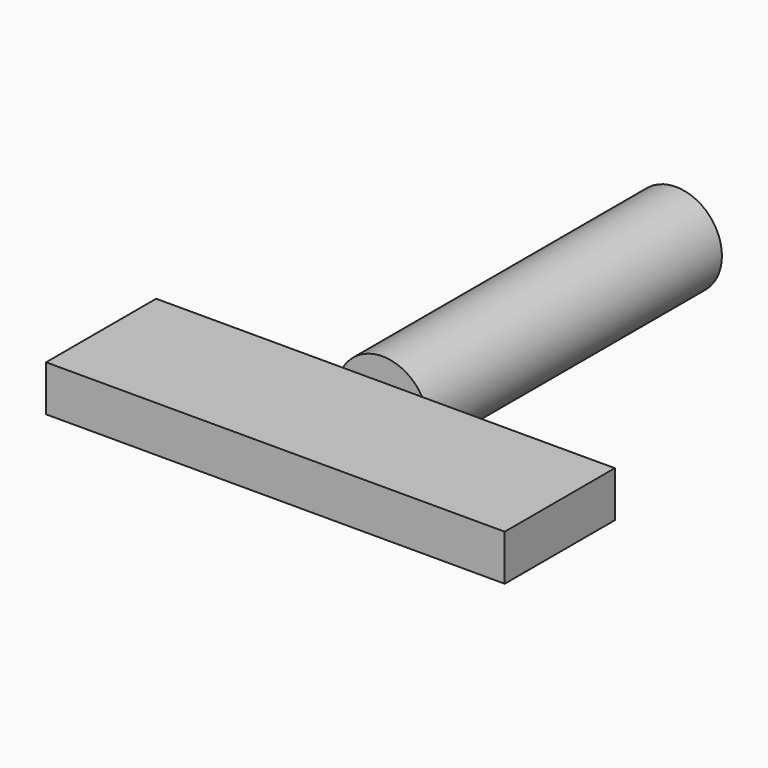
from build123d import *

# Parameters (mm, degrees)
F0_R     = 5
F1_DEPTH = 40
F2_W     = 50
F2_H     = 15
F3_DEPTH = 2.5


with BuildPart() as f1:
    # F0 (on Front) → F1 (new body)
    with BuildSketch(Plane.XZ):
        Circle(F0_R)
    extrude(amount=F1_DEPTH)

    # F2 (on Top) → F3 (join, symmetric)
    with BuildSketch(Plane.XY):
        with Locations((0.324281, -47.5)):
            Rectangle(F2_W, F2_H)
    extrude(amount=F3_DEPTH, both=True)


solid = f1.part
